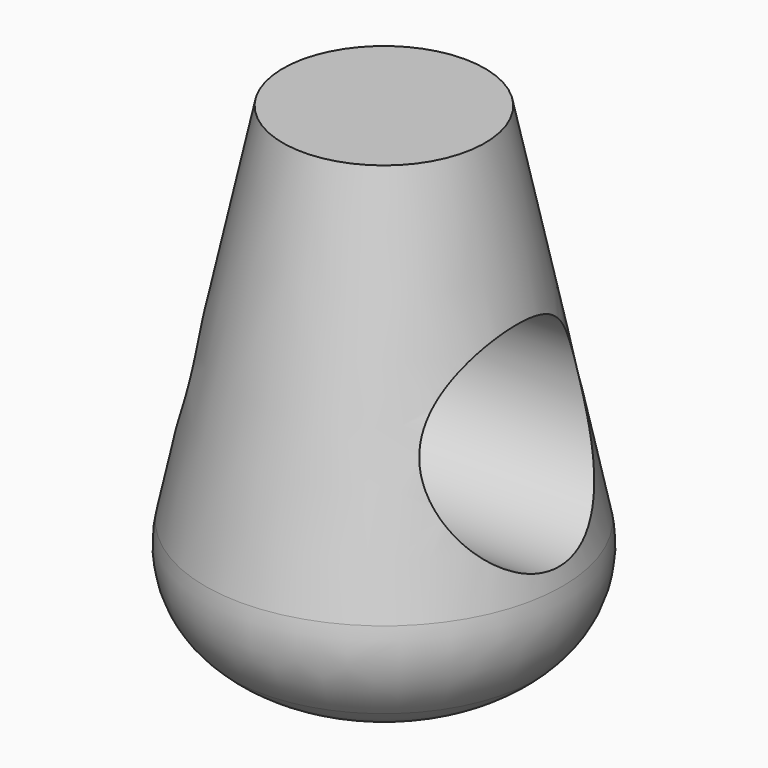
from build123d import *

# Parameters (mm, degrees)
F3_R     = 10
F4_DEPTH = 43.141664


with BuildPart() as f1:
    # F0 (on Right) → F1 (revolve)
    with BuildSketch(Plane.YZ):
        with BuildLine():
            Line((0, 25), (0, 0))
            Line((0, 0), (0, -25))
            Line((0, -25), (4.994477, -25))
            ThreePointArc((4.994477, -25), (10.504601, -23.909558), (15.184071, -20.802617))
            ThreePointArc((15.184071, -20.802617), (17.723299, -16.562861), (17.92214, -11.624879))
            Line((17.92214, -11.624879), (10.137281, 25))
            Line((10.137281, 25), (0, 25))
        make_face()
    revolve(axis=Axis((0, 0, 12.5), (0, 0, 1)))

    # F3 (on offset) → F4 (cut, through all)
    with BuildSketch(Plane.YZ.offset(25)):
        Circle(F3_R)
    extrude(amount=-F4_DEPTH, mode=Mode.SUBTRACT)


solid = f1.part
